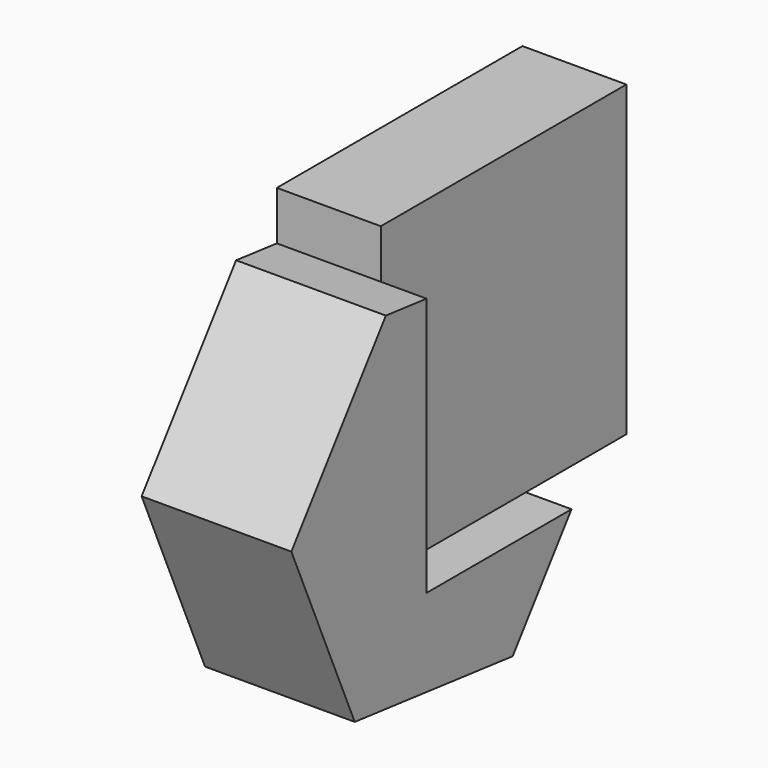
from build123d import *

# Parameters (mm, degrees)
F4_DEPTH = 25
F6_DEPTH = 36


with BuildPart() as f4:
    # F2 (on Right) → F4 (new body)
    with BuildSketch(Plane.YZ):
        Polygon((23.118287, 0), (23.118287, 30.795261), (-50.702602, 30.795261), (-50.702602, 19.038247), (-50.702602, -43.253601), (-7.1146, -43.253601), (23.118287, -43.253601), align=None)
    extrude(amount=F4_DEPTH)

    # F1 (on face) → F6 (join)
    with BuildSketch(Plane.YZ):
        Polygon((-62.939021, 20.429226), (-91.347322, -17.983027), (-72.285485, -61.791464), (-24.815348, -67.187647), (-7.1146, -43.253601), (-50.702602, -43.253601), (-50.702602, 19.038247), align=None)
    extrude(amount=F6_DEPTH)


solid = f4.part
